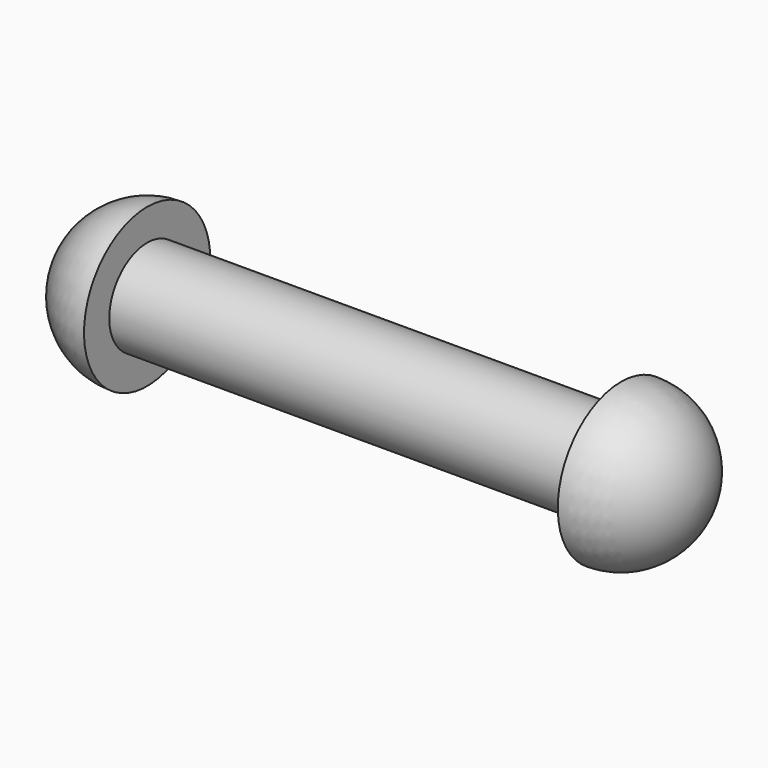
from build123d import *


with BuildPart() as f1:
    # F0 (on Front) → F1 (revolve)
    with BuildSketch(Plane.XZ):
        with BuildLine():
            Line((-75, 0), (0, 0))
            Line((0, 0), (25, 0))
            ThreePointArc((25, 0), (17.67767, 17.67767), (0, 25))
            Line((0, 25), (0, 15))
            Line((0, 15), (-75, 15))
            Line((-75, 15), (-150, 15))
            Line((-150, 15), (-150, 25))
            ThreePointArc((-150, 25), (-167.67767, 17.67767), (-175, 0))
            Line((-175, 0), (-150, 0))
            Line((-150, 0), (-75, 0))
        make_face()
    revolve(axis=Axis((-112.5, 0, 0), (1, 0, 0)))


solid = f1.part
